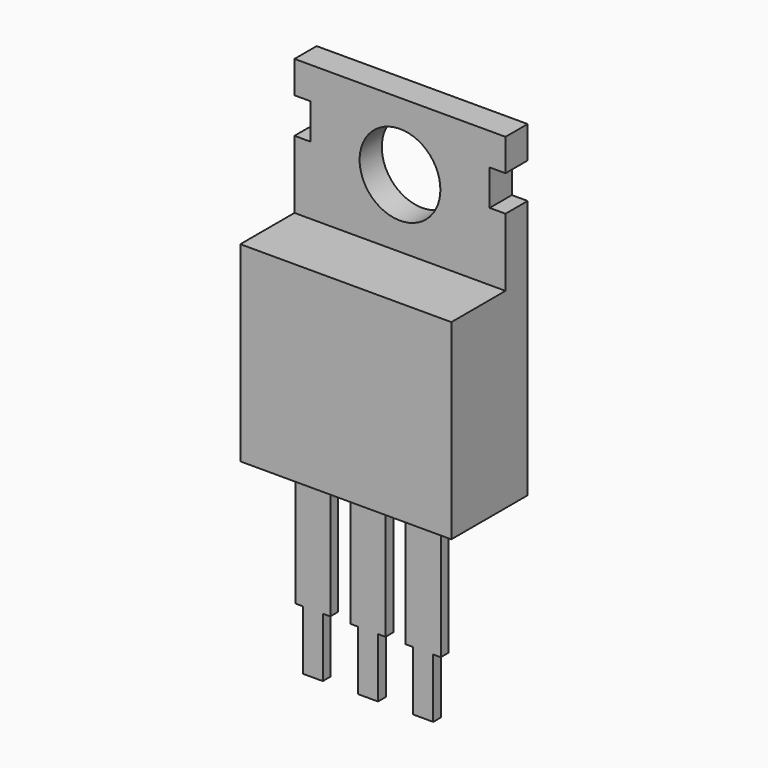
from build123d import *

# Parameters (mm, degrees)
F0_R     = 2.04
F1_DEPTH = 1.4
F2_W     = 10.66
F2_H     = 9.66
F3_DEPTH = 3.42
F4_W     = 1.77
F4_H     = 0.5
F5_DEPTH = 6.35
F6_W     = 1.01
F6_H     = 0.5
F7_DEPTH = 3


with BuildPart() as f1:
    # F0 (on Front) → F1 (new body)
    with BuildSketch(Plane.XZ):
        Polygon((5.33, 16.51), (-5.33, 16.51), (-5.33, 14.89), (-4.53, 14.89), (-4.53, 13.09), (-5.33, 13.09), (-5.33, 0), (5.33, 0), (5.33, 13.09), (4.53, 13.09), (4.53, 14.89), (5.33, 14.89), align=None)
        with Locations((0, 13.09)):
            Circle(F0_R, mode=Mode.SUBTRACT)
    extrude(amount=-F1_DEPTH)

    # F2 (on face) → F3 (join)
    with BuildSketch(Plane.XZ):
        with Locations((0, 4.83)):
            Rectangle(F2_W, F2_H)
    extrude(amount=F3_DEPTH)

    # F4 (on face) → F5 (join)
    with BuildSketch(Plane(origin=(0, 0, 0), x_dir=(1, 0, 0), z_dir=(0, 0, -1))):
        with Locations((-2.79, 1.77)):
            Rectangle(F4_W, F4_H)
        with Locations((0, 1.77)):
            Rectangle(F4_W, F4_H)
        with Locations((2.79, 1.77)):
            Rectangle(F4_W, F4_H)
    extrude(amount=F5_DEPTH)

    # F6 (on face) → F7 (join)
    with BuildSketch(Plane(origin=(0, 0, -6.35), x_dir=(1, 0, 0), z_dir=(0, 0, -1))):
        with Locations((-2.79, 1.77)):
            Rectangle(F6_W, F6_H)
        with Locations((0, 1.77)):
            Rectangle(F6_W, F6_H)
        with Locations((2.79, 1.77)):
            Rectangle(F6_W, F6_H)
    extrude(amount=F7_DEPTH)


solid = f1.part
